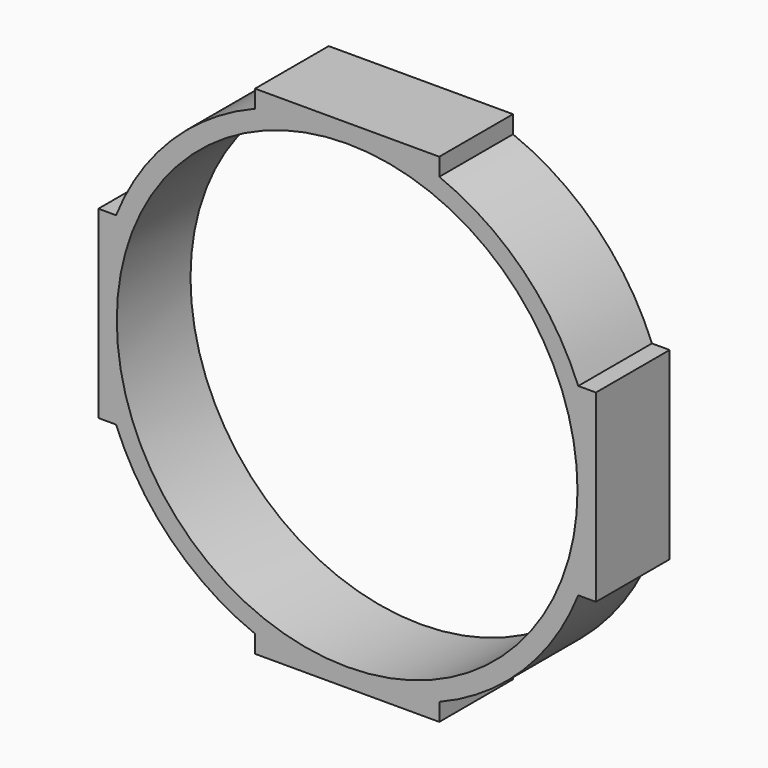
from build123d import *

# Parameters (mm, degrees)
F0_R     = 31.75
F1_DEPTH = 6.35


with BuildPart() as f1:
    # F0 (on Front) → F1 (new body, symmetric)
    with BuildSketch(Plane.XZ):
        with BuildLine():
            ThreePointArc((31.851438, -12.7), (33.674842, -6.465999), (34.29, 0))
            ThreePointArc((34.29, 0), (33.674842, 6.465999), (31.851438, 12.7))
            ThreePointArc((31.851438, 12.7), (24.246692, 24.246692), (12.7, 31.851438))
            ThreePointArc((12.7, 31.851438), (6.465999, 33.674842), (0, 34.29))
            ThreePointArc((0, 34.29), (-6.465999, 33.674842), (-12.7, 31.851438))
            ThreePointArc((-12.7, 31.851438), (-24.246692, 24.246692), (-31.851438, 12.7))
            ThreePointArc((-31.851438, 12.7), (-33.674842, 6.465999), (-34.29, 0))
            ThreePointArc((-34.29, 0), (-33.674842, -6.465999), (-31.851438, -12.7))
            ThreePointArc((-31.851438, -12.7), (-24.246692, -24.246692), (-12.7, -31.851438))
            ThreePointArc((-12.7, -31.851438), (-6.465999, -33.674842), (0, -34.29))
            ThreePointArc((0, -34.29), (6.465999, -33.674842), (12.7, -31.851438))
            ThreePointArc((12.7, -31.851438), (24.246692, -24.246692), (31.851438, -12.7))
        make_face()
        Circle(F0_R, mode=Mode.SUBTRACT)
        with BuildLine():
            ThreePointArc((-34.29, 0), (-33.674842, 6.465999), (-31.851438, 12.7))
            Line((-31.851438, 12.7), (-34.29, 12.7))
            Line((-34.29, 12.7), (-34.29, 0))
        make_face()
        with BuildLine():
            Line((-34.29, -12.7), (-31.851438, -12.7))
            ThreePointArc((-31.851438, -12.7), (-33.674842, -6.465999), (-34.29, 0))
            Line((-34.29, 0), (-34.29, -12.7))
        make_face()
        with BuildLine():
            ThreePointArc((-12.7, 31.851438), (-6.465999, 33.674842), (0, 34.29))
            Line((0, 34.29), (-12.7, 34.29))
            Line((-12.7, 34.29), (-12.7, 31.851438))
        make_face()
        with BuildLine():
            ThreePointArc((0, 34.29), (6.465999, 33.674842), (12.7, 31.851438))
            Line((12.7, 31.851438), (12.7, 34.29))
            Line((12.7, 34.29), (0, 34.29))
        make_face()
        with BuildLine():
            ThreePointArc((31.851438, 12.7), (33.674842, 6.465999), (34.29, 0))
            Line((34.29, 0), (34.29, 12.7))
            Line((34.29, 12.7), (31.851438, 12.7))
        make_face()
        with BuildLine():
            Line((34.29, -12.7), (34.29, 0))
            ThreePointArc((34.29, 0), (33.674842, -6.465999), (31.851438, -12.7))
            Line((31.851438, -12.7), (34.29, -12.7))
        make_face()
        with BuildLine():
            Line((12.7, -34.29), (12.7, -31.851438))
            ThreePointArc((12.7, -31.851438), (6.465999, -33.674842), (0, -34.29))
            Line((0, -34.29), (12.7, -34.29))
        make_face()
        with BuildLine():
            Line((-12.7, -34.29), (0, -34.29))
            ThreePointArc((0, -34.29), (-6.465999, -33.674842), (-12.7, -31.851438))
            Line((-12.7, -31.851438), (-12.7, -34.29))
        make_face()
    extrude(amount=F1_DEPTH, both=True)


solid = f1.part
